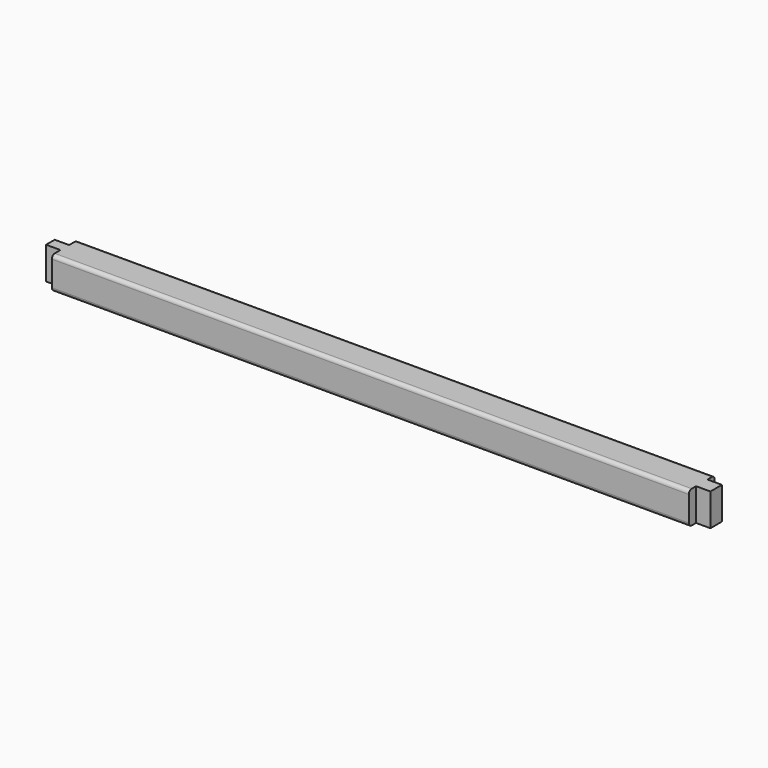
from build123d import *

# Parameters (mm, degrees)
F0_W     = 45
F0_H     = 45
F1_DEPTH = 442.5
F2_W     = 20
F2_H     = 45
F3_DEPTH = 20
F4_W     = 15
F4_H     = 45
F5_DEPTH = 20
F6_R     = 5


with BuildPart() as f1:
    # F0 (on Right) → F1 (new body, symmetric)
    with BuildSketch(Plane.YZ):
        Rectangle(F0_W, F0_H)
    extrude(amount=F1_DEPTH, both=True)

    # F2 (on face) → F3 (join)
    with BuildSketch(Plane.YZ.offset(442.5)):
        Rectangle(F2_W, F2_H)
    extrude(amount=F3_DEPTH)

    # F4 (on face) → F5 (join)
    with BuildSketch(Plane(origin=(-442.5, 0, 0), x_dir=(0, -1, 0), z_dir=(-1, 0, 0))):
        Rectangle(F4_W, F4_H)
    extrude(amount=F5_DEPTH)

    # F6
    f6_edges = [f1.edges().sort_by_distance(p)[0] for p in [
        (0, -22.5, 22.5),
        (0, 22.5, 22.5),
        (0, -22.5, -22.5),
        (0, 22.5, -22.5),
    ]]
    fillet(f6_edges, radius=F6_R)


solid = f1.part
